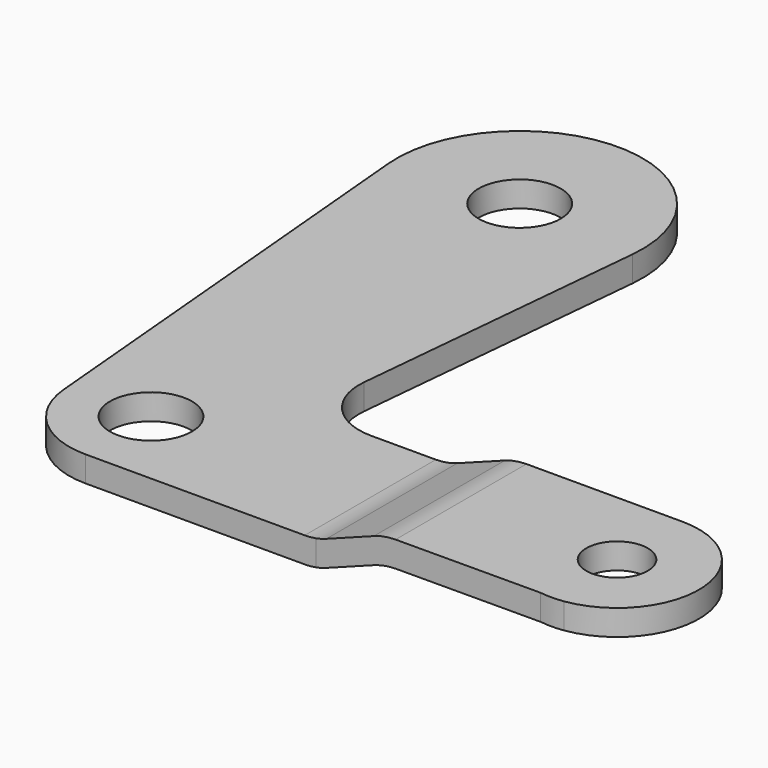
from build123d import *

# Parameters (mm, degrees)
F0_R      = 4
F1_DEPTH  = 2.5
F3_R      = 3
F4_DEPTH  = 2.5
F1_FACE_W = 16
F1_FACE_H = 2.5
F4_FACE_W = 15.976364256
F4_FACE_H = 2.5
F7_R      = 6
F8_R      = 6


with BuildPart() as f1:
    # F0 (on Top) → F1 (new body)
    with BuildSketch(Plane.XY):
        with BuildLine():
            Line((9.1568758371, 14.5686935942), (11.9459763261, 43.8626128117))
            ThreePointArc((11.9459763261, 43.8626128117), (0.0355103222, 56.9999474589), (-11.9524985765, 43.9333333333))
            Line((-11.9524985765, 43.9333333333), (-7.9683323844, -0.7111111111))
            ThreePointArc((-7.9683323844, -0.7111111111), (-5.3995884617, -5.902918299), (0, -8))
            Line((0, -8), (22.5, -8))
            Line((22.5, -8), (22.5, 8))
            Line((22.5, 8), (15.1298640001, 8))
            ThreePointArc((15.1298640001, 8), (10.6907108396, 9.9634272932), (9.1568758371, 14.5686935942))
        make_face()
        Circle(F0_R, mode=Mode.SUBTRACT)
        with Locations((0, 45)):
            Circle(F0_R, mode=Mode.SUBTRACT)
    extrude(amount=-F1_DEPTH)


with BuildPart() as f4:
    # F3 (on offset) → F4 (new body)
    with BuildSketch(Plane(origin=(0, 0, 0), x_dir=(1, 0, 0), z_dir=(0, 0, -1))):
        with BuildLine():
            Line((29.1677432093, -8), (45.5, -8))
            ThreePointArc((45.5, -8), (53.478553963, -0.5853859069), (46.6676332619, 7.914330835))
            Line((46.6676332619, 7.914330835), (44.3885046452, 7.9224098655))
            Line((44.3885046452, 7.9224098655), (29.1677432093, 7.976364256))
            Line((29.1677432093, 7.976364256), (29.1677432093, -8))
        make_face()
        with Locations((45.5, 0)):
            Circle(F3_R, mode=Mode.SUBTRACT)
        with BuildLine():
            Line((44.3885046452, 7.9224098655), (46.6676332619, 7.914330835))
            ThreePointArc((46.6676332619, 7.914330835), (45.5283581353, 7.9999497384), (44.3885046452, 7.9224098655))
        make_face()
    extrude(amount=-F4_DEPTH)


with BuildPart() as f5:
    # F1_face (on face) → F5 section 0
    with BuildSketch(Plane(origin=(22.5, 0, -1.25), x_dir=(0, 1, 0), z_dir=(1, 0, 0))):
        Rectangle(F1_FACE_W, F1_FACE_H)
    # F4_face (on face) → F5 section 1
    with BuildSketch(Plane(origin=(29.1677432093, 0.011817872, 1.25), x_dir=(0, -1, 0), z_dir=(-1, 0, 0))):
        Rectangle(F4_FACE_W, F4_FACE_H)
    loft()


with BuildPart() as f1_1:
    add(f1.part)

    # F6: union F4, F5
    add(f4.part)
    add(f5.part)

    # F7
    f7_edges = [f1_1.edges().sort_by_distance(p)[0] for p in [
        (22.5, 0, 0),
        (29.167743, 0.011818, 2.5),
    ]]
    fillet(f7_edges, radius=F7_R)

    # F8
    f8_edges = [f1_1.edges().sort_by_distance(p)[0] for p in [
        (29.167743, 0.011818, 0),
        (22.5, 0, -2.5),
    ]]
    fillet(f8_edges, radius=F8_R)


solid = f1_1.part
